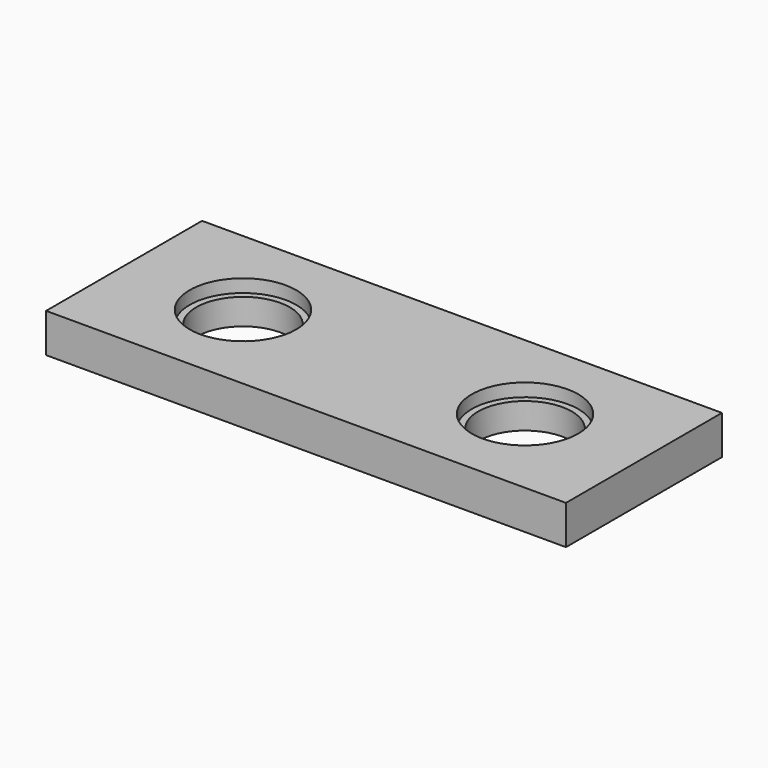
from build123d import *

# Parameters (mm, degrees)
F0_W     = 40
F0_H     = 15
F0_R     = 4.1
F0_R_2   = 3.6
F1_DEPTH = 3
F2_R     = 4.1
F3_DEPTH = 1


with BuildPart() as f1:
    # F0 (on Top) → F1 (new body)
    with BuildSketch(Plane.XY):
        Rectangle(F0_W, F0_H)
        with Locations((-10.85, 0)):
            Circle(F0_R, mode=Mode.SUBTRACT)
        with Locations((10.85, 0)):
            Circle(F0_R, mode=Mode.SUBTRACT)
        with Locations((10.85, 0)):
            Circle(F0_R)
        with Locations((10.85, 0)):
            Circle(F0_R_2, mode=Mode.SUBTRACT)
        with Locations((-10.85, 0)):
            Circle(F0_R)
        with Locations((-10.85, 0)):
            Circle(F0_R_2, mode=Mode.SUBTRACT)
    extrude(amount=F1_DEPTH)

    # F2 (on face) → F3 (cut)
    with BuildSketch(Plane.XY.offset(3)):
        with Locations((-10.85, 0)):
            Circle(F2_R)
        with Locations((10.85, 0)):
            Circle(F2_R)
    extrude(amount=-F3_DEPTH, mode=Mode.SUBTRACT)


solid = f1.part
